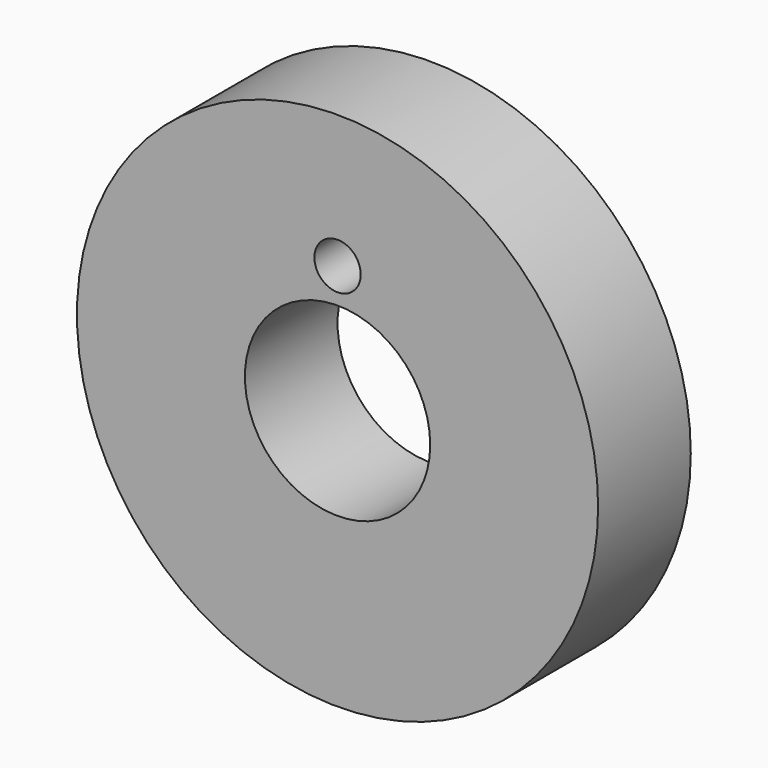
from build123d import *

# Parameters (mm, degrees)
F0_R     = 11.25
F0_R_2   = 4
F0_R_3   = 1
F1_DEPTH = 5


with BuildPart() as f1:
    # F0 (on Front) → F1 (new body)
    with BuildSketch(Plane.XZ):
        Circle(F0_R)
        Circle(F0_R_2, mode=Mode.SUBTRACT)
        with Locations((0, 5.5)):
            Circle(F0_R_3, mode=Mode.SUBTRACT)
    extrude(amount=F1_DEPTH)


solid = f1.part
